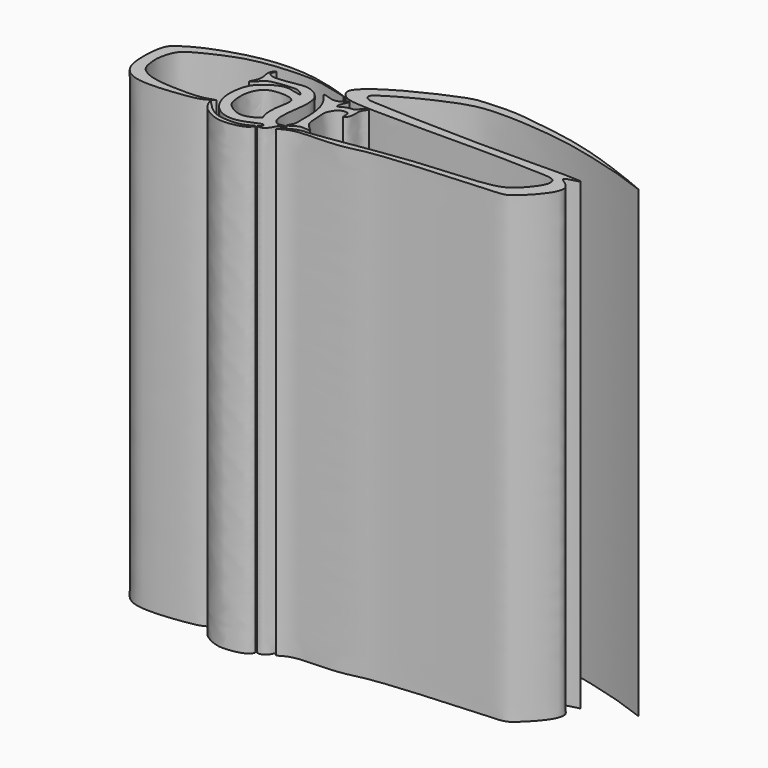
from build123d import *

# Parameters (mm, degrees)
F1_DEPTH = 25.4


with BuildPart() as f1:
    # F0 (on Top) → F1 (new body)
    with BuildSketch(Plane.XY):
        with BuildLine():
            add(Edge.make_bspline(
                [(-6.070788067, 1.659688225), (-6.0392969105, 1.6748872636), (-7.9865450854, 2.3572901074), (-10.810763013, 2.4138569999), (-13.7532069018, 1.4066882336), (-14.607527423, 0.7828469998), (-14.9125791538, 0.5167235568), (-15.0753964581, -0.2961176011), (-15.0852540529, -1.8614116088), (-14.2687864055, -2.6521656901), (-12.8182498806, -2.7145787636), (-10.9419950316, -2.464490446), (-10.5083824487, -2.2985761302), (-9.8576791767, -1.9087534897), (-10.7203476657, -2.2753952771), (-11.9641168756, -2.2583214018), (-13.4191535903, -2.2065056144), (-14.3571519855, -1.7201650346), (-14.4460714924, -1.0351234837), (-14.5043018219, -0.5482353129), (-14.2862617607, 0.2959506723), (-13.8547044173, 0.7465105042), (-12.1686272317, 1.5481007851), (-10.7279497821, 1.9824659981), (-8.52376253, 2.1339031435), (-7.4193863465, 2.0235082642), (-6.0977046435, 1.6466970829), (-6.070788067, 1.659688225)],
                knots=[0, 0, 0, 0, 0.0470173774, 0.1140343672, 0.1785219227, 0.2148507368, 0.2364857108, 0.269343692, 0.3151686522, 0.3516846616, 0.3964054409, 0.4466901844, 0.4741072755, 0.4979892985, 0.5247837183, 0.5682648993, 0.6133387041, 0.6493403477, 0.678084512, 0.7044363816, 0.7376022424, 0.7666531228, 0.8158334235, 0.8632399992, 0.9165482967, 0.9598126273, 1, 1, 1, 1], degree=3))
        make_face()
    extrude(amount=F1_DEPTH)


with BuildPart() as f1b:
    # F0 (on Top) → F1, piece 2 (new body)
    with BuildSketch(Plane.XY):
        with BuildLine():
            add(Edge.make_bspline(
                [(-9.791106917, 1.6086887335), (-9.8443086416, 1.5581086816), (-9.9585129703, 1.4018757041), (-9.8820370658, 1.0110390806), (-9.817305942, 0.6584520686), (-10.1826959947, 0.0759263229), (-9.8698956316, 0.3294309989), (-9.6832672824, 0.5752821875), (-9.5019037684, 0.7331112092), (-9.0748558579, 0.853810458), (-8.1969748997, 0.9344048142), (-7.8707136783, 0.891866703), (-7.3998301175, 0.5088749138), (-8.1849141462, 0.762084428), (-8.7697211274, 0.8076908286), (-9.6860709341, 0.1720405395), (-9.9672235856, -0.3848208056), (-10.1494375786, -1.5823760136), (-9.4940381411, -2.788775919), (-8.2831917167, -3.0821720836), (-7.2580844662, -2.4950553876), (-7.0481212343, -2.524043437), (-7.0430017174, -2.7445875955), (-7.3077120909, -2.8171123456), (-7.000236836, -2.840312424), (-6.8183264394, -2.7182032201), (-6.6282119952, -2.5061587108), (-6.5474521364, -2.183995317), (-6.1090825036, -2.1324642748), (-6.3402711765, -2.0173445866), (-6.6429739084, -2.1669005591), (-6.8980413977, -1.939657288), (-6.9644023333, -1.6678479725), (-6.9801063123, -1.4301825473), (-6.9574931387, -0.8628985787), (-6.837001805, -0.2528547285), (-6.8051295095, 0.623380344), (-7.1857904338, 1.1417918396), (-7.8685844335, 1.4272183972), (-8.7276944883, 1.2048468112), (-9.2808116205, 1.1640576892), (-9.5261233649, 1.1590539083), (-9.791289358, 1.2589851582), (-9.8150113023, 1.436405675), (-9.6781424404, 1.6975450566), (-9.7604502293, 1.637834722), (-9.791106917, 1.6086887335)],
                knots=[0, 0, 0, 0, 0.0172734433, 0.0386656122, 0.061185672, 0.0850224954, 0.1007883741, 0.1215474113, 0.1379966024, 0.161355137, 0.1941896632, 0.2160016017, 0.2358797669, 0.2611086497, 0.2898884623, 0.3253340296, 0.3531860119, 0.3907842355, 0.4303283291, 0.4681902232, 0.5052153068, 0.5183230723, 0.5327173542, 0.5464734929, 0.5613317164, 0.578524504, 0.596923489, 0.6169267044, 0.6359709993, 0.6482085388, 0.6682353879, 0.6872366239, 0.7054126413, 0.7225051855, 0.7483697828, 0.7769575558, 0.8091953045, 0.8363118656, 0.8654912368, 0.8986749336, 0.9245875402, 0.9419700335, 0.9593803556, 0.9738934899, 0.9900464401, 1, 1, 1, 1], degree=3))
        make_face()
        with BuildLine():
            add(Edge.make_bspline(
                [(-8.9115276933, 0.0957282828), (-8.7804194826, 0.1455387874), (-8.3881116326, 0.223467294), (-7.8139803428, 0.1783538968), (-7.4483071552, -0.0599955626), (-7.6222626442, -0.7237311146), (-7.6948844108, -1.444126491), (-7.5973364276, -1.9046593727), (-7.5016068039, -2.0194980918), (-7.6455967046, -2.1305619317), (-7.9223594807, -2.3444959821), (-8.5795722879, -2.5044562919), (-9.2293027047, -2.0623639527), (-9.4344466009, -1.8171942861), (-9.5455763926, -1.1274216302), (-9.4487226952, -0.4650148261), (-9.153024252, -0.0373526318), (-9.00518693, 0.0601453561), (-8.9115276933, 0.0957282828)],
                knots=[0, 0, 0, 0, 0.0672626125, 0.1382455982, 0.192593272, 0.2655096739, 0.3473887733, 0.4092328973, 0.4396474788, 0.4740840082, 0.5290021322, 0.6035756913, 0.6829474805, 0.7349225777, 0.8102709122, 0.8875283729, 0.9519498823, 1, 1, 1, 1], degree=3))
        make_face(mode=Mode.SUBTRACT)
    extrude(amount=F1_DEPTH)


with BuildPart() as f1c:
    # F0 (on Top) → F1, piece 3 (new body)
    with BuildSketch(Plane.XY):
        with BuildLine():
            add(Edge.make_bspline(
                [(-10.1595818996, -2.2982584778), (-10.0204587708, -2.4523110986), (-9.444730516, -3.0741665944), (-8.5900149586, -3.1867543746), (-7.7133282337, -3.1345388414), (-7.1894530918, -2.7112393488), (-7.4335066497, -3.1842125758), (-8.2029980216, -3.3700707388), (-8.9399932061, -3.4242569618), (-9.7088144373, -3.0601157183), (-10.0862407779, -2.6934694578), (-10.291821493, -2.1491961374), (-10.2060065427, -2.2468519432), (-10.1595818996, -2.2982584778)],
                knots=[0, 0, 0, 0, 0.1167186912, 0.2279965584, 0.3415680165, 0.4178503453, 0.479357536, 0.585243853, 0.6884809193, 0.7943640422, 0.8851309339, 0.9610515978, 1, 1, 1, 1], degree=3))
        make_face()
    extrude(amount=F1_DEPTH)


with BuildPart() as f1d:
    # F0 (on Top) → F1, piece 4 (new body)
    with BuildSketch(Plane.XY):
        with BuildLine():
            add(Edge.make_bspline(
                [(-6.7858565599, 1.255246345), (-6.7393580058, 1.2842648356), (-6.302997031, 1.1129467932), (-6.1445376712, 1.1004648718), (-5.8764090382, 1.1406696061), (-5.4600010789, 1.5402498605), (-5.5850725088, 1.1962053151), (-5.7095648584, 0.9679617735), (-5.7195150646, 0.6749290271), (-5.4385298818, 0.8985258097), (-5.1360976436, 0.9585098817), (-4.9160480755, 0.9682378225), (-4.7714451044, 1.1586254794), (-4.5774425065, 1.3343328518), (-4.3429677173, 1.4043944569), (-4.6417512191, 1.1051270475), (-4.6542391308, 0.7574387708), (-4.6356162729, 0.3747685417), (-4.914110444, 0.022014044), (-4.8801090212, 0.4092522748), (-4.934383206, 0.5950171093), (-5.2512995928, 0.6007514984), (-5.4936321834, 0.438425167), (-5.6339699927, 0.2075368533), (-5.7767380259, -0.1263094385), (-5.6661227584, -0.6713570316), (-5.7138529984, -1.3616459563), (-4.9834190278, -1.7873686282), (-5.6533897019, -1.6537640901), (-5.8758255411, -1.7384463096), (-6.4034866828, -2.1064923177), (-6.108655691, -1.6888682656), (-6.0817626614, -1.4388231216), (-6.0914182562, -0.7643249762), (-6.1307762164, 0.1980461373), (-6.5157991984, 0.9158912845), (-6.8252116766, 1.2306858804), (-6.7858565599, 1.255246345)],
                knots=[0, 0, 0, 0, 0.0335702118, 0.0549671869, 0.0808211175, 0.1119282089, 0.1330842183, 0.1609335976, 0.18137805, 0.2060136421, 0.2343298628, 0.2562461586, 0.2793516856, 0.3056498883, 0.3227653373, 0.3488283514, 0.378586487, 0.4099333438, 0.4350612445, 0.4593696579, 0.4802530268, 0.5055172371, 0.5316829369, 0.556744072, 0.5852322099, 0.6214403508, 0.6625484994, 0.6965827338, 0.7266579235, 0.7553356082, 0.7860921461, 0.8118442093, 0.8379315277, 0.877158285, 0.9256498158, 0.971587082, 1, 1, 1, 1], degree=3))
        make_face()
    extrude(amount=F1_DEPTH)


with BuildPart() as f1e:
    # F0 (on Top) → F1, piece 5 (new body)
    with BuildSketch(Plane.XY):
        with BuildLine():
            add(Edge.make_bspline(
                [(9.168183431, 2.8058297466), (9.2119038929, 2.8167897094), (5.2604096611, 4.4502598927), (2.315044105, 4.822955438), (0.5332345217, 5.1023384292), (-0.9686751431, 4.983569556), (-1.6950665613, 4.9616400097), (-4.4627401043, 3.6840841154), (-5.7921618007, 2.7932401476), (-6.349549547, 2.1192532112), (-5.9360963362, 1.6431623867), (-5.4765109087, 1.4526637908), (-2.8723721338, 1.3701680074), (2.5858194574, 1.4607672585), (4.744484905, 1.3322087699), (5.5477683033, 1.3327644292), (5.8737281851, 1.1346801707), (5.8483012633, 0.7180312111), (5.5445048504, 0.2328286649), (4.9251824804, -0.4811878758), (4.1206596618, -0.8485255697), (2.2299995201, -1.0139355494), (-0.6258659865, -1.1907116818), (-4.8963614093, -1.9575287446), (-5.8076162535, -1.9462269032), (-6.6496328791, -2.6742681843), (-5.9169683055, -2.1578496823), (-4.8450761525, -2.105198148), (-3.1821802032, -2.0662328082), (-2.0157537993, -1.6544979463), (1.994660104, -1.3739193285), (3.7577436113, -1.248953543), (4.9926698875, -1.2169999007), (5.5106452035, -0.8831229745), (7.3223585419, 1.0298889225), (5.5296086146, 1.5926922837), (7.1485920666, 1.8096741251), (6.0697292285, 1.9203358606), (3.3057982212, 1.8372111721), (-0.4158637206, 1.8641413719), (-4.3272607946, 1.997090645), (-5.0584714053, 2.0602779218), (-5.22694939, 2.2269262738), (-5.2206112355, 2.4273427288), (-4.9148973011, 2.6474309971), (-4.260415291, 3.0775623486), (-1.5281438032, 4.4864683278), (0.1672129195, 4.5954992897), (2.1001391791, 4.5300447574), (4.5754213214, 4.2069287194), (6.692642677, 3.6155911635), (7.5436837079, 3.4024619373), (9.1403462107, 2.7988514375), (9.168183431, 2.8058297466)],
                knots=[0, 0, 0, 0, 0.0315849501, 0.0624125257, 0.083913579, 0.1031085371, 0.1172930523, 0.1454644713, 0.1670342923, 0.1804797278, 0.1918378444, 0.2025745532, 0.2282942786, 0.2675142064, 0.29149024, 0.305192798, 0.3142244641, 0.3238729099, 0.3362834393, 0.3519124668, 0.3669527757, 0.3886124143, 0.4175560923, 0.4511759999, 0.4675089393, 0.4805362087, 0.4915116893, 0.5093193666, 0.5298165582, 0.5485511667, 0.5809979783, 0.6037011394, 0.6204495161, 0.6343153243, 0.6577943241, 0.6724396504, 0.6866647875, 0.6975037829, 0.7250762431, 0.758291355, 0.7902389168, 0.8030875159, 0.8100414661, 0.8166153874, 0.8257917114, 0.8403060139, 0.8686854614, 0.8903717868, 0.9126559647, 0.9389657337, 0.9624996119, 0.9798895717, 1, 1, 1, 1], degree=3))
        make_face()
    extrude(amount=F1_DEPTH)


solid = Compound([f1.part, f1b.part, f1c.part, f1d.part, f1e.part])
